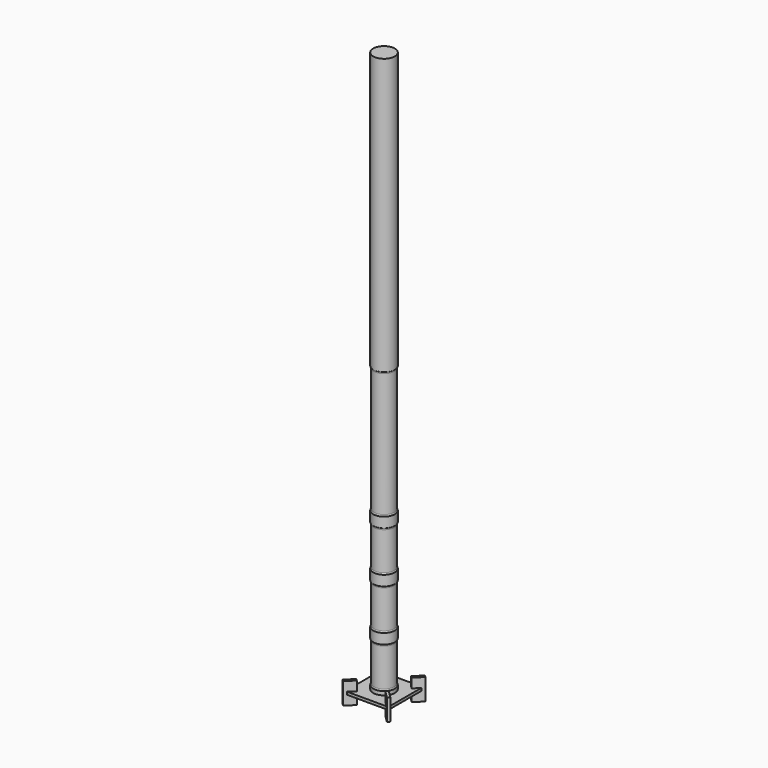
from build123d import *

# Parameters (mm, degrees)
F0_W     = 50.8
F0_H     = 50.8
F0_R     = 12.7
F1_DEPTH = 3.175
F2_W     = 12.7
F2_H     = 25.4
F3_DEPTH = 1.5875
F4_COUNT = 4
F4_ANGLE = 270
F5_ANGLE = 45
F7_R     = 12.6873
F8_DEPTH = 660.4
F9_DEPTH = 6.35


with BuildPart() as f1:
    # F0 (on Top) → F1 (new body)
    with BuildSketch(Plane.XY):
        Rectangle(F0_W, F0_H)
        Circle(F0_R, mode=Mode.SUBTRACT)
    extrude(amount=-F1_DEPTH)


with BuildPart() as f3:
    # F2 (on Front) → F3 (new body, symmetric)
    with BuildSketch(Plane.XZ):
        with Locations((31.75, -1.5875)):
            Rectangle(F2_W, F2_H)
    extrude(amount=F3_DEPTH, both=True)


with BuildPart() as f4_1:
    # F4: instance of F3
    add(f3.part.rotate(Axis((0, 0, 0), (0, 0, -1)), 1 * F4_ANGLE / (F4_COUNT - 1)))


with BuildPart() as f4_2:
    # F4: instance of F3
    add(f3.part.rotate(Axis((0, 0, 0), (0, 0, -1)), 2 * F4_ANGLE / (F4_COUNT - 1)))


with BuildPart() as f4_3:
    # F4: instance of F3
    add(f3.part.rotate(Axis((0, 0, 0), (0, 0, -1)), 3 * F4_ANGLE / (F4_COUNT - 1)))


with BuildPart() as f3_1:
    # F5: moved
    add(f3.part.rotate(Axis((0, 0, 0), (0, 0, 1)), F5_ANGLE))


with BuildPart() as f4_1_1:
    # F5: moved
    add(f4_1.part.rotate(Axis((0, 0, 0), (0, 0, 1)), F5_ANGLE))


with BuildPart() as f4_2_1:
    # F5: moved
    add(f4_2.part.rotate(Axis((0, 0, 0), (0, 0, 1)), F5_ANGLE))


with BuildPart() as f4_3_1:
    # F5: moved
    add(f4_3.part.rotate(Axis((0, 0, 0), (0, 0, 1)), F5_ANGLE))


with BuildPart() as f1_1:
    add(f1.part)

    # F6: cut F4_2, F4_1, F3, F4_3
    add(f4_2_1.part, mode=Mode.SUBTRACT)
    add(f4_1_1.part, mode=Mode.SUBTRACT)
    add(f3_1.part, mode=Mode.SUBTRACT)
    add(f4_3_1.part, mode=Mode.SUBTRACT)


with BuildPart() as f8:
    # F7 (on Top) → F8 (new body)
    with BuildSketch(Plane.XY):
        Circle(F7_R)
    extrude(amount=F8_DEPTH)

    # F7 (on Top) → F9 (join)
    with BuildSketch(Plane.XY):
        Circle(F7_R)
    extrude(amount=-F9_DEPTH)

    # F10 (on Front) → F13 (revolve, cut)
    with BuildSketch(Plane.XZ):
        with BuildLine():
            Line((15.24, 3.175), (30.082090688, 3.175))
            Line((30.082090688, 3.175), (30.082090688, 53.975))
            Line((30.082090688, 53.975), (15.24, 53.975))
            ThreePointArc((15.24, 53.975), (12.9949359697, 53.0450640303), (12.065, 50.8))
            Line((12.065, 50.8), (12.065, 6.35))
            ThreePointArc((12.065, 6.35), (12.9949359697, 4.1049359697), (15.24, 3.175))
        make_face()
    revolve(axis=Axis((0, 0, 660.4), (0, 0, 1)), mode=Mode.SUBTRACT)

    # F11 (on Front) → F14 (revolve, cut)
    with BuildSketch(Plane.XZ):
        with BuildLine():
            Line((15.24, 63.5), (30.0820905366, 63.5))
            Line((30.0820905366, 63.5), (30.0820905366, 114.3))
            Line((30.0820905366, 114.3), (15.24, 114.3))
            ThreePointArc((15.24, 114.3), (12.9949359697, 113.3700640303), (12.065, 111.125))
            Line((12.065, 111.125), (12.065, 66.675))
            ThreePointArc((12.065, 66.675), (12.9949359697, 64.4299359697), (15.24, 63.5))
        make_face()
    revolve(axis=Axis((0, 0, 660.4), (0, 0, 1)), mode=Mode.SUBTRACT)

    # F12 (on Front) → F15 (revolve, cut)
    with BuildSketch(Plane.XZ):
        with BuildLine():
            Line((15.24, 123.825), (30.0820905366, 123.825))
            Line((30.0820905366, 123.825), (30.0820905366, 174.625))
            Line((30.0820905366, 174.625), (15.24, 174.625))
            ThreePointArc((15.24, 174.625), (12.9949359697, 173.6950640303), (12.065, 171.45))
            Line((12.065, 171.45), (12.065, 127))
            ThreePointArc((12.065, 127), (12.9949359697, 124.7549359697), (15.24, 123.825))
        make_face()
    revolve(axis=Axis((0, 0, 660.4), (0, 0, 1)), mode=Mode.SUBTRACT)

    # F16 (on face) → F17 (revolve, cut)
    with BuildSketch(Plane.XZ):
        with BuildLine():
            Line((15.24, 184.15), (30.0820905366, 184.15))
            Line((30.0820905366, 184.15), (30.0820905366, 336.55))
            Line((30.0820905366, 336.55), (15.24, 336.55))
            ThreePointArc((15.24, 336.55), (12.9949359697, 335.6200640303), (12.065, 333.375))
            Line((12.065, 333.375), (12.065, 187.325))
            ThreePointArc((12.065, 187.325), (12.9949359697, 185.0799359697), (15.24, 184.15))
        make_face()
    revolve(axis=Axis((0, 0, 0), (0, 0, -1)), mode=Mode.SUBTRACT)


solid = Compound([f3_1.part, f4_1_1.part, f4_2_1.part, f4_3_1.part, f1_1.part, f8.part])
